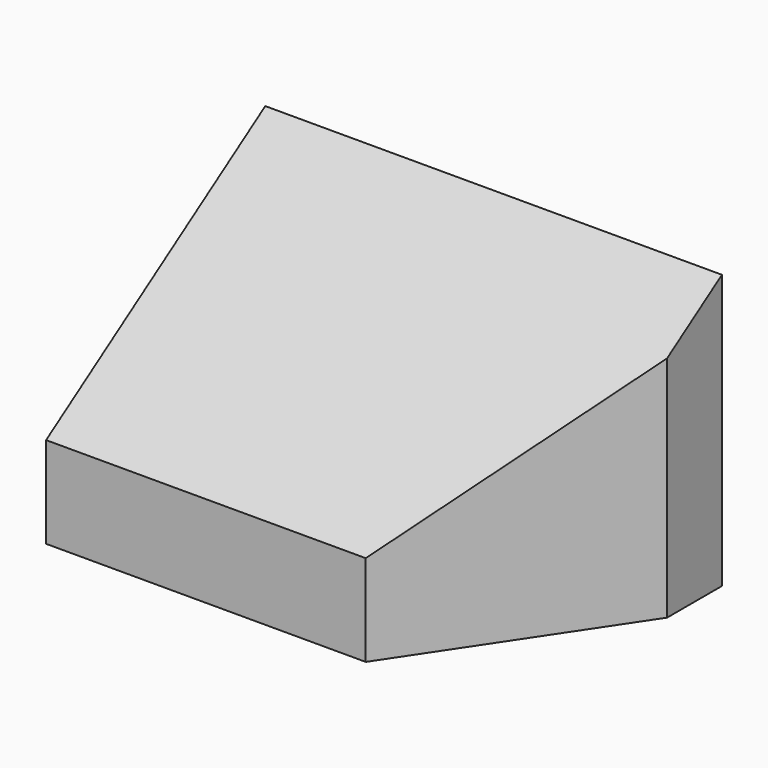
from build123d import *

# Parameters (mm, degrees)
F0_W     = 100
F0_H     = 60
F1_DEPTH = 60
F3_DEPTH = 60
F5_DEPTH = 100


with BuildPart() as f1:
    # F0 (on Top) → F1 (new body)
    with BuildSketch(Plane.XY):
        with Locations((50, -30)):
            Rectangle(F0_W, F0_H)
    extrude(amount=F1_DEPTH)

    # F2 (on face) → F3 (cut, through all)
    with BuildSketch(Plane.XY.offset(60)):
        Polygon((100, -60), (100, -15), (70, -60), align=None)
    extrude(amount=-F3_DEPTH, mode=Mode.SUBTRACT)

    # F4 (on face) → F5 (cut, through all)
    with BuildSketch(Plane(origin=(0, 0, 0), x_dir=(0, -1, 0), z_dir=(-1, 0, 0))):
        Polygon((60, 60), (0, 60), (60, 20), align=None)
    extrude(amount=-F5_DEPTH, mode=Mode.SUBTRACT)


solid = f1.part
